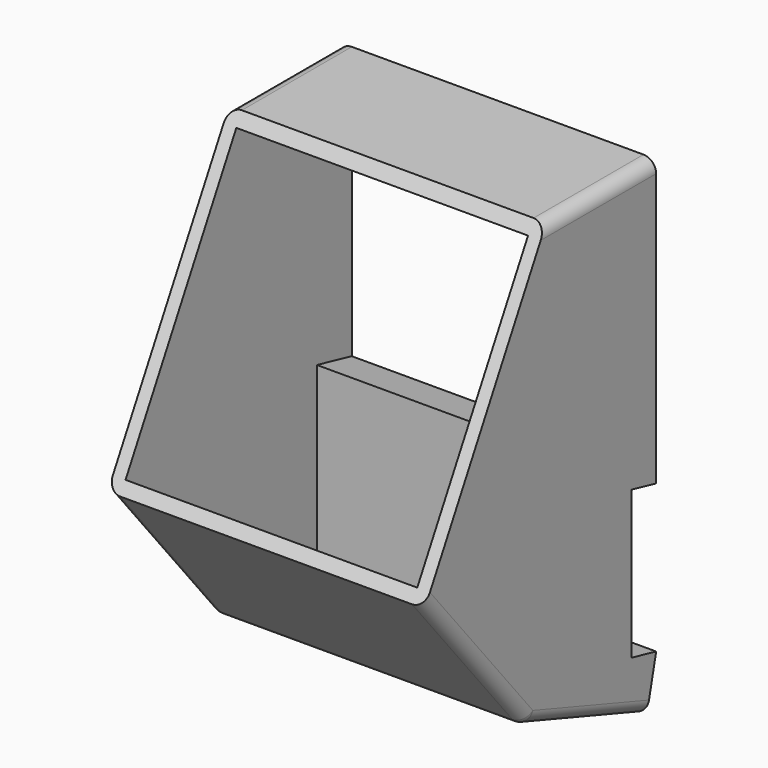
from build123d import *

# Parameters (mm, degrees)
F1_DEPTH = 15
F2_T     = -1.2
F3_R     = 1.2


with BuildPart() as f1:
    # F0 (on Right) → F1 (new body, symmetric)
    with BuildSketch(Plane.YZ):
        Polygon((-2.9243966283, 0.669256573), (0, 0), (0, 27), (-13, 27), (-27.3767851269, 0.669256573), (-15.3014834083, -14), (-1.1154276217, -18.8739943805), (0, -14), (-2.9243966283, -13.330743427), align=None)
    extrude(amount=F1_DEPTH, both=True)

    # F2
    f2_openings = [f1.faces().sort_by_distance(p)[0] for p in [
        (0, 0, 13.5),
        (0, -0.557714, -16.436997),
        (0, -20.188393, 13.834628),
    ]]
    offset(amount=F2_T, openings=f2_openings, kind=Kind.INTERSECTION)

    # F3
    f3_edges = [f1.edges().sort_by_distance(p)[0] for p in [
        (-15, -6.5, 27),
        (15, -6.5, 27),
        (-15, -8.208456, -16.436997),
        (0, -15.301483, -14),
        (-15, -21.339134, -6.665372),
        (15, -8.208456, -16.436997),
        (15, -21.339134, -6.665372),
    ]]
    fillet(f3_edges, radius=F3_R)


solid = f1.part
